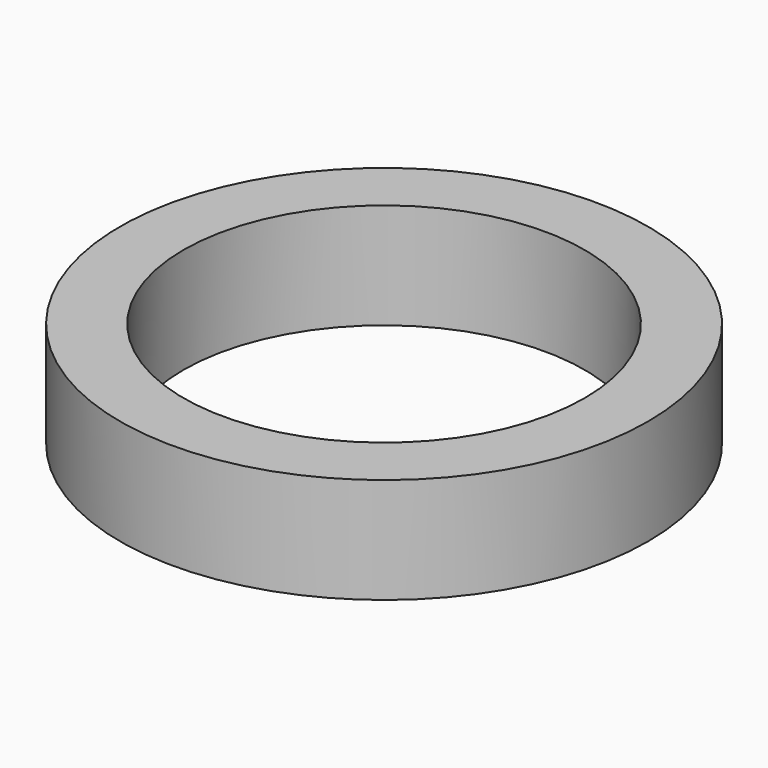
from build123d import *

# Parameters (mm, degrees)
CYLINDER001_R     = 9.5
CYLINDER001_DEPTH = 15
CYLINDER_R        = 12.5
CYLINDER_DEPTH    = 5


with BuildPart() as cilindro_interior:
    # Cylinder001 → Cylinder001 (new body)
    with BuildSketch(Plane.XY.offset(-4)):
        Circle(CYLINDER001_R)
    extrude(amount=CYLINDER001_DEPTH)


with BuildPart() as obj1:
    # Cylinder → Cylinder (new body)
    with BuildSketch(Plane.XY):
        Circle(CYLINDER_R)
    extrude(amount=CYLINDER_DEPTH)

    # Cut: cut Cilindro-interior
    add(cilindro_interior.part, mode=Mode.SUBTRACT)


solid = obj1.part
